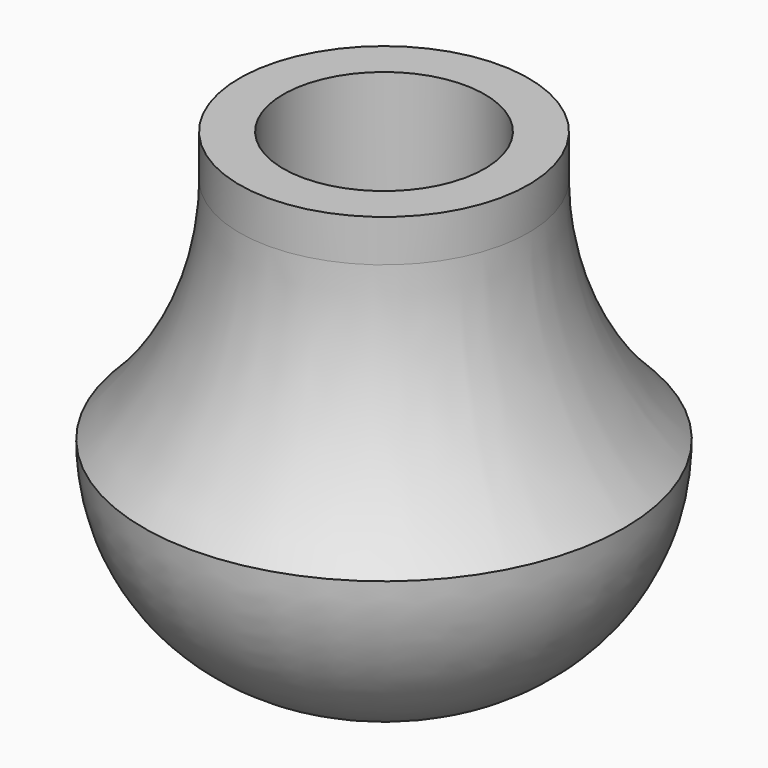
from build123d import *


with BuildPart() as f1:
    # F0 (on Right) → F1 (revolve)
    with BuildSketch(Plane.YZ):
        with BuildLine():
            Line((-5.842, 5.08), (-5.842, 27.305))
            Line((-5.842, 27.305), (-8.382, 27.305))
            Line((-8.382, 27.305), (-8.382, 24.856243))
            ThreePointArc((-8.382, 24.856243), (-9.828704, 17.664886), (-13.94373, 11.592397))
            ThreePointArc((-13.94373, 11.592397), (-9.70677, 2.506561), (0, 0))
            Line((0, 0), (0, 5.08))
            Line((0, 5.08), (-5.842, 5.08))
        make_face()
    revolve(axis=Axis((0, 0, 2.54), (0, 0, -1)))


solid = f1.part
